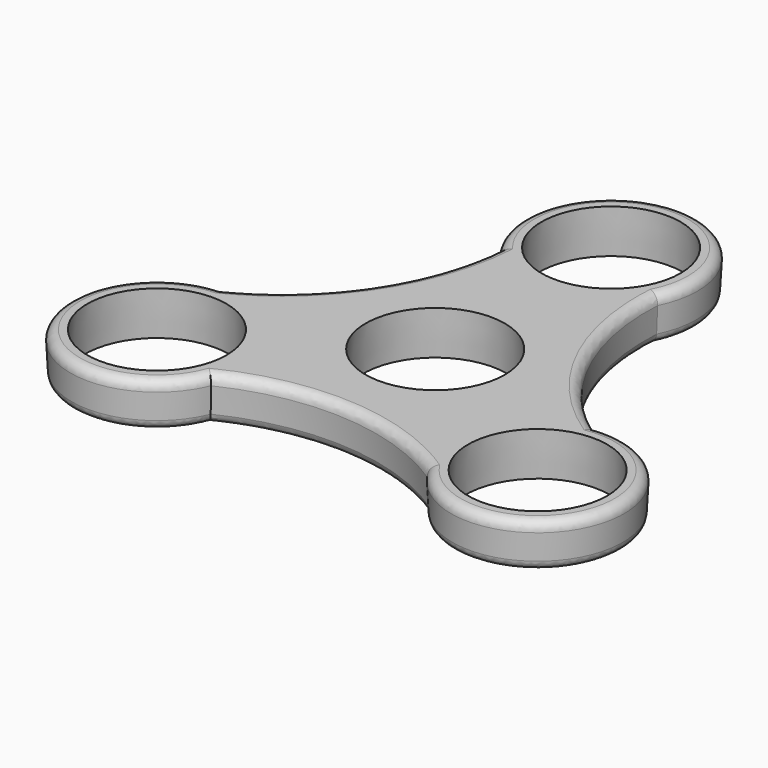
from build123d import *

# Parameters (mm, degrees)
F0_R     = 11.2
F1_DEPTH = 7
F1_TAPER = -3
F2_R     = 1.5
F3_R     = 1.5


with BuildPart() as f1:
    # F0 (on Top) → F1 (new body)
    with BuildSketch(Plane.XY):
        with BuildLine():
            ThreePointArc((27.7391201287, -4.0547216124), (15.4841858268, 10.0113677963), (11.7907018761, 28.297878188))
            ThreePointArc((11.7907018761, 28.297878188), (-1.332736899, 47.3650152373), (-10.3580681428, 26.0501435163))
            ThreePointArc((-10.3580681428, 26.0501435163), (-16.4121917517, 8.4040143848), (-30.402032322, -3.9378917408))
            ThreePointArc((-30.402032322, -3.9378917408), (-40.3529379966, -24.8366916298), (-17.381051986, -21.9954219039))
            ThreePointArc((-17.381051986, -21.9954219039), (0.9280059248, -18.4153821811), (18.6113304459, -24.3599864471))
            ThreePointArc((18.6113304459, -24.3599864471), (41.6856748956, -22.5283236075), (27.7391201287, -4.0547216124))
        make_face()
        with Locations((-29.6461864138, -17.1162337065)):
            Circle(F0_R, mode=Mode.SUBTRACT)
        with Locations((29.6461864138, -17.1162337065)):
            Circle(F0_R, mode=Mode.SUBTRACT)
        Circle(F0_R, mode=Mode.SUBTRACT)
        with Locations((0, 34.2324674129)):
            Circle(F0_R, mode=Mode.SUBTRACT)
    extrude(amount=F1_DEPTH, taper=F1_TAPER)

    # F2
    f2_edges = [f1.edges().sort_by_distance(p)[0] for p in [
        (0.936876, -18.783625, 7),
        (-40.670128, -25.023968, 7),
        (-16.735535, 8.580454, 7),
        (-1.336328, 47.733348, 7),
        (15.798659, 10.203171, 7),
        (42.006456, -22.70938, 7),
    ]]
    fillet(f2_edges, radius=F2_R)

    # F3
    f3_edges = [f1.edges().sort_by_distance(p)[0] for p in [
        (-1.332737, 47.365015, 0),
        (-16.412192, 8.404014, 0),
        (-40.352938, -24.836692, 0),
        (0.928006, -18.415382, 0),
        (41.685675, -22.528324, 0),
        (15.484186, 10.011368, 0),
    ]]
    fillet(f3_edges, radius=F3_R)


solid = f1.part
